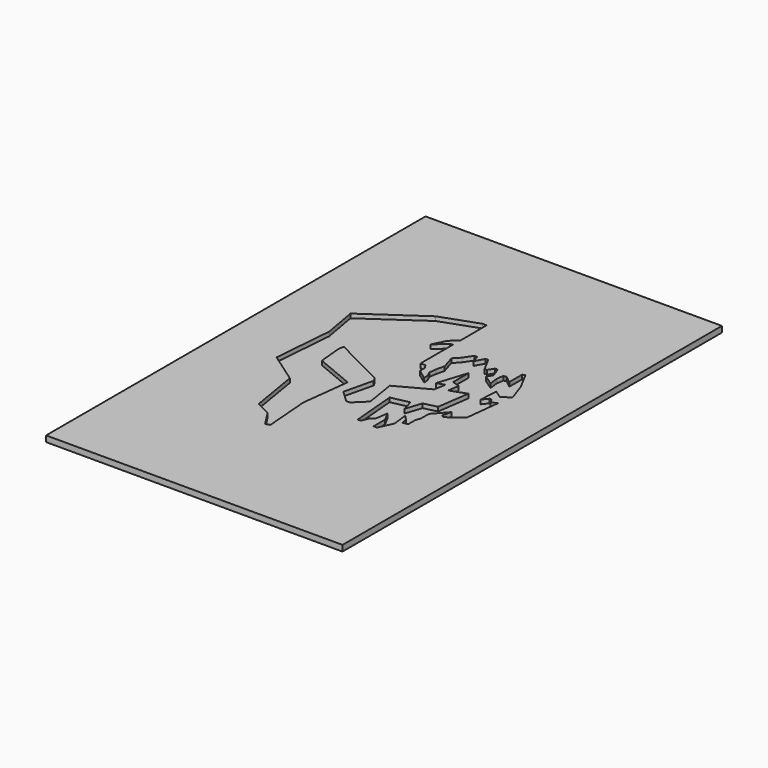
from build123d import *

# Parameters (mm, degrees)
F1_DEPTH = 0.3
F2_W     = 50
F2_H     = 80
F3_DEPTH = 1


with BuildPart() as f1:
    # F0 (on Top) → F1 (new body)
    with BuildSketch(Plane.XY):
        Polygon((0.712675, 15.270151), (0.690062, 20.777893), (0, 20.777893), (-6.158038, 18.574403), (-15.406642, 12.183537), (-14.377871, 6.422419), (-15.201324, -3.648944), (-10.119598, -7.209389), (-8.745982, -15.490465), (-6.2484, -16.724988), (-4.502518, -19.434085), (-3.799315, -19.222107), (-4.405524, -11.486877), (-3.435589, -3.363675), (-9.958401, -0.647857), (-10.324874, 3.315877), (-10.173654, 4.244799), (-1.402901, -0.205386), (-1.035653, -0.875074), (-2.202206, -5.822124), (-0.236348, -7.658365), (0.390134, -7.658365), (2.312787, -5.800521), (1.491879, -0.647857), (6.706654, 2.165446), (7.070379, 4.129564), (5.785215, 3.717342), (7.361359, 8.639761), (7.361359, 5.366231), (8.622275, 4.954008), (8.355541, 3.086884), (10.998614, 4.020446), (10.228239, -1.372148), (8.016065, -1.90828), (7.144242, -4.575033), (6.585411, -2.659979), (3.578614, -3.290436), (4.227621, -10.86133), (4.771292, -10.814724), (5.246052, -9.648911), (5.925006, -8.994205), (6.203862, -7.005839), (7.057673, -8.588474), (7.057673, -11.031068), (7.64664, -11.031068), (8.737817, -8.678976), (8.422588, -6.060153), (9.113666, -6.787604), (9.441019, -7.866656), (10.25334, -7.721166), (10.25334, -6.193519), (10.54432, -5.332702), (10.54432, -3.712002), (12.530581, -1.477186), (12.184544, -2.933421), (12.573835, -3.290436), (15.10281, -1.418724), (15.742388, 4.331473), (14.796702, 3.967747), (14.418927, 4.667996), (14.069251, 4.667996), (13.329675, 3.725264), (13.4809, 6.812778), (14.833075, 5.871244), (16.21523, 6.841179), (15.165069, 9.887992), (13.579787, 12.826489), (13.134402, 12.707163), (13.134402, 9.996007), (11.924642, 10.957333), (11.438578, 10.870922), (11.254954, 9.758375), (11.438578, 8.170567), (9.742755, 9.315517), (10.334263, 10.191618), (9.710351, 11.832248), (9.289096, 11.832248), (8.695018, 10.870922), (8.273762, 10.870922), (7.013025, 13.207839), (6.585411, 13.207839), (5.753823, 11.723072), (5.341601, 12.983987), (4.880882, 12.971863), (3.910947, 11.516961), (2.965261, 10.522777), (3.668464, 8.18281), (3.341111, 6.800653), (3.183496, 5.588235), (3.578614, 4.739542), (3.627767, 3.922476), (1.953327, 5.153279), (1.953327, 6.18205), (1.49038, 6.885044), (0.684509, 6.799313), (0.684509, 13.653399), (0.222199, 13.653399), (-1.667038, 11.85499), (-0.577093, 14.071212), align=None)
        Polygon((0.712675, 15.270151), (0.690062, 20.777893), (0, 20.777893), (-6.158038, 18.574403), (-15.406642, 12.183537), (-14.377871, 6.422419), (-15.201324, -3.648944), (-10.119598, -7.209389), (-8.745982, -15.490465), (-6.2484, -16.724988), (-4.502518, -19.434085), (-3.799315, -19.222107), (-4.405524, -11.486877), (-3.435589, -3.363675), (-9.958401, -0.647857), (-10.324874, 3.315877), (-10.173654, 4.244799), (-1.402901, -0.205386), (-1.035653, -0.875074), (-2.202206, -5.822124), (-0.236348, -7.658365), (0.390134, -7.658365), (2.312787, -5.800521), (1.491879, -0.647857), (6.706654, 2.165446), (7.070379, 4.129564), (5.785215, 3.717342), (7.361359, 8.639761), (7.361359, 5.366231), (8.622275, 4.954008), (8.355541, 3.086884), (10.998614, 4.020446), (10.228239, -1.372148), (8.016065, -1.90828), (7.144242, -4.575033), (6.585411, -2.659979), (3.578614, -3.290436), (4.227621, -10.86133), (4.771292, -10.814724), (5.246052, -9.648911), (5.925006, -8.994205), (6.203862, -7.005839), (7.057673, -8.588474), (7.057673, -11.031068), (7.64664, -11.031068), (8.737817, -8.678976), (8.422588, -6.060153), (9.113666, -6.787604), (9.441019, -7.866656), (10.25334, -7.721166), (10.25334, -6.193519), (10.54432, -5.332702), (10.54432, -3.712002), (12.530581, -1.477186), (12.184544, -2.933421), (12.573835, -3.290436), (15.10281, -1.418724), (15.742388, 4.331473), (14.796702, 3.967747), (14.418927, 4.667996), (14.069251, 4.667996), (13.329675, 3.725264), (13.4809, 6.812778), (14.833075, 5.871244), (16.21523, 6.841179), (15.165069, 9.887992), (13.579787, 12.826489), (13.134402, 12.707163), (13.134402, 9.996007), (11.924642, 10.957333), (11.438578, 10.870922), (11.254954, 9.758375), (11.438578, 8.170567), (9.742755, 9.315517), (10.334263, 10.191618), (9.710351, 11.832248), (9.289096, 11.832248), (8.695018, 10.870922), (8.273762, 10.870922), (7.013025, 13.207839), (6.585411, 13.207839), (5.753823, 11.723072), (5.341601, 12.983987), (4.880882, 12.971863), (3.910947, 11.516961), (2.965261, 10.522777), (3.668464, 8.18281), (3.341111, 6.800653), (3.183496, 5.588235), (3.578614, 4.739542), (3.627767, 3.922476), (1.953327, 5.153279), (1.953327, 6.18205), (1.49038, 6.885044), (0.684509, 6.799313), (0.684509, 13.653399), (0.222199, 13.653399), (-1.667038, 11.85499), (-0.577093, 14.071212), align=None)
        Polygon((0.712675, 15.270151), (0.690062, 20.777893), (0, 20.777893), (-6.158038, 18.574403), (-15.406642, 12.183537), (-14.377871, 6.422419), (-15.201324, -3.648944), (-10.119598, -7.209389), (-8.745982, -15.490465), (-6.2484, -16.724988), (-4.502518, -19.434085), (-3.799315, -19.222107), (-4.405524, -11.486877), (-3.435589, -3.363675), (-9.958401, -0.647857), (-10.324874, 3.315877), (-10.173654, 4.244799), (-1.402901, -0.205386), (-1.035653, -0.875074), (-2.202206, -5.822124), (-0.236348, -7.658365), (0.390134, -7.658365), (2.312787, -5.800521), (1.491879, -0.647857), (6.706654, 2.165446), (7.070379, 4.129564), (5.785215, 3.717342), (7.361359, 8.639761), (7.361359, 5.366231), (8.622275, 4.954008), (8.355541, 3.086884), (10.998614, 4.020446), (10.228239, -1.372148), (8.016065, -1.90828), (7.144242, -4.575033), (6.585411, -2.659979), (3.578614, -3.290436), (4.227621, -10.86133), (4.771292, -10.814724), (5.246052, -9.648911), (5.925006, -8.994205), (6.203862, -7.005839), (7.057673, -8.588474), (7.057673, -11.031068), (7.64664, -11.031068), (8.737817, -8.678976), (8.422588, -6.060153), (9.113666, -6.787604), (9.441019, -7.866656), (10.25334, -7.721166), (10.25334, -6.193519), (10.54432, -5.332702), (10.54432, -3.712002), (12.530581, -1.477186), (12.184544, -2.933421), (12.573835, -3.290436), (15.10281, -1.418724), (15.742388, 4.331473), (14.796702, 3.967747), (14.418927, 4.667996), (14.069251, 4.667996), (13.329675, 3.725264), (13.4809, 6.812778), (14.833075, 5.871244), (16.21523, 6.841179), (15.165069, 9.887992), (13.579787, 12.826489), (13.134402, 12.707163), (13.134402, 9.996007), (11.924642, 10.957333), (11.438578, 10.870922), (11.254954, 9.758375), (11.438578, 8.170567), (9.742755, 9.315517), (10.334263, 10.191618), (9.710351, 11.832248), (9.289096, 11.832248), (8.695018, 10.870922), (8.273762, 10.870922), (7.013025, 13.207839), (6.585411, 13.207839), (5.753823, 11.723072), (5.341601, 12.983987), (4.880882, 12.971863), (3.910947, 11.516961), (2.965261, 10.522777), (3.668464, 8.18281), (3.341111, 6.800653), (3.183496, 5.588235), (3.578614, 4.739542), (3.627767, 3.922476), (1.953327, 5.153279), (1.953327, 6.18205), (1.49038, 6.885044), (0.684509, 6.799313), (0.684509, 13.653399), (0.222199, 13.653399), (-1.667038, 11.85499), (-0.577093, 14.071212), align=None)
    extrude(amount=F1_DEPTH)

    # F2 (on face) → F3 (join)
    with BuildSketch(Plane(origin=(0, 0, 0), x_dir=(1, 0, 0), z_dir=(0, 0, -1))):
        Rectangle(F2_W, F2_H)
        Polygon((0.712675, -15.270151), (0.690062, -20.777893), (0, -20.777893), (-6.158038, -18.574403), (-15.406642, -12.183537), (-14.377871, -6.422419), (-15.201324, 3.648944), (-10.119598, 7.209389), (-8.745982, 15.490465), (-6.2484, 16.724988), (-4.502518, 19.434085), (-3.799315, 19.222107), (-4.405524, 11.486877), (-3.435589, 3.363675), (-9.958401, 0.647857), (-10.324874, -3.315877), (-10.173654, -4.244799), (-1.402901, 0.205386), (-1.035653, 0.875074), (-2.202206, 5.822124), (-0.236348, 7.658365), (0.390134, 7.658365), (2.312787, 5.800521), (1.491879, 0.647857), (6.706654, -2.165446), (7.070379, -4.129564), (5.785215, -3.717342), (7.361359, -8.639761), (7.361359, -5.366231), (8.622275, -4.954008), (8.355541, -3.086884), (10.998614, -4.020446), (10.228239, 1.372148), (8.016065, 1.90828), (7.144242, 4.575033), (6.585411, 2.659979), (3.578614, 3.290436), (4.227621, 10.86133), (4.771292, 10.814724), (5.246052, 9.648911), (5.925006, 8.994205), (6.203862, 7.005839), (7.057673, 8.588474), (7.057673, 11.031068), (7.64664, 11.031068), (8.737817, 8.678976), (8.422588, 6.060153), (9.113666, 6.787604), (9.441019, 7.866656), (10.25334, 7.721166), (10.25334, 6.193519), (10.54432, 5.332702), (10.54432, 3.712002), (12.530581, 1.477186), (12.184544, 2.933421), (12.573835, 3.290436), (15.10281, 1.418724), (15.742388, -4.331473), (14.796702, -3.967747), (14.418927, -4.667996), (14.069251, -4.667996), (13.329675, -3.725264), (13.4809, -6.812778), (14.833075, -5.871244), (16.21523, -6.841179), (15.165069, -9.887992), (13.579787, -12.826489), (13.134402, -12.707163), (13.134402, -9.996007), (11.924642, -10.957333), (11.438578, -10.870922), (11.254954, -9.758375), (11.438578, -8.170567), (9.742755, -9.315517), (10.334263, -10.191618), (9.710351, -11.832248), (9.289096, -11.832248), (8.695018, -10.870922), (8.273762, -10.870922), (7.013025, -13.207839), (6.585411, -13.207839), (5.753823, -11.723072), (5.341601, -12.983987), (4.880882, -12.971863), (3.910947, -11.516961), (2.965261, -10.522777), (3.668464, -8.18281), (3.341111, -6.800653), (3.183496, -5.588235), (3.578614, -4.739542), (3.627767, -3.922476), (1.953327, -5.153279), (1.953327, -6.18205), (1.49038, -6.885044), (0.684509, -6.799313), (0.684509, -13.653399), (0.222199, -13.653399), (-1.667038, -11.85499), (-0.577093, -14.071212), align=None, mode=Mode.SUBTRACT)
    extrude(amount=-F3_DEPTH)


solid = f1.part
